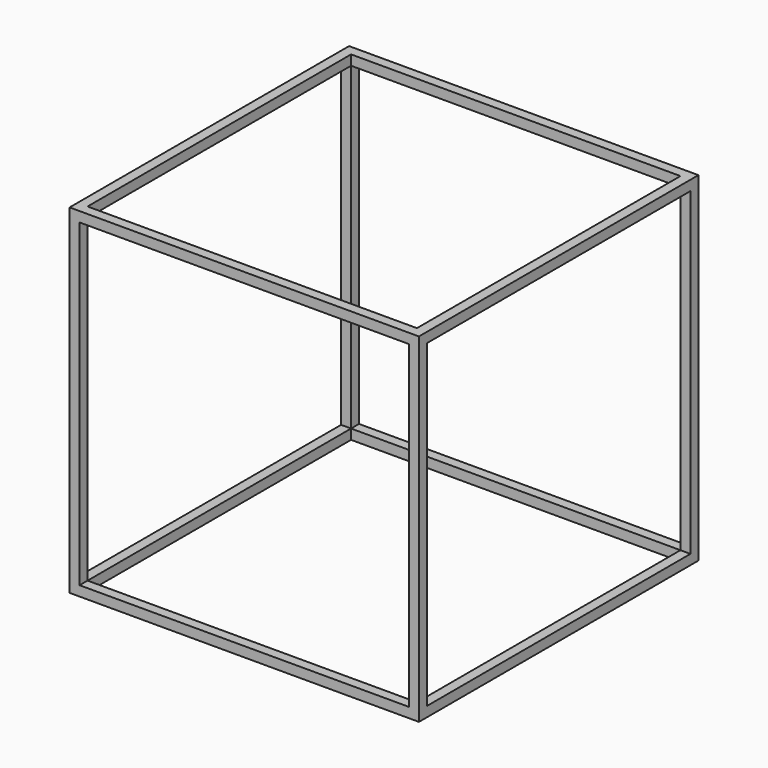
from build123d import *

# Parameters (mm, degrees)
F0_W      = 20
F0_H      = 660
F0_H_2    = 20
F1_DEPTH  = 20
F2_DEPTH  = 680
F3_W      = 20
F3_H      = 20
F4_DEPTH  = 660
F5_W      = 20
F5_H      = 20
F6_DEPTH  = 680
F7_W      = 20
F7_H      = 20
F8_DEPTH  = 660
F9_W      = 20
F9_H      = 20
F10_DEPTH = 660


with BuildPart() as f1:
    # F0 (on Top) → F1 (new body)
    with BuildSketch(Plane.XY):
        Polygon((350.936165, 480.516352), (-329.063835, 480.516352), (-329.063835, 460.516352), (330.936165, 460.516352), (330.936165, -199.483648), (-329.063835, -199.483648), (-329.063835, -219.483648), (350.936165, -219.483648), align=None)
        with Locations((-339.063835, 130.516352)):
            Rectangle(F0_W, F0_H)
        with Locations((-339.063835, 470.516352)):
            Rectangle(F0_W, F0_H_2)
        with Locations((-339.063835, -209.483648)):
            Rectangle(F0_W, F0_H_2)
    extrude(amount=F1_DEPTH)

    # F0 (on Top) → F2 (join)
    with BuildSketch(Plane.XY):
        with Locations((-339.063835, 470.516352)):
            Rectangle(F0_W, F0_H_2)
        with Locations((-339.063835, -209.483648)):
            Rectangle(F0_W, F0_H_2)
    extrude(amount=F2_DEPTH)

    # F3 (on face) → F4 (join)
    with BuildSketch(Plane(origin=(0, -199.483648, 0), x_dir=(-1, 0, 0), z_dir=(0, 1, 0))):
        with Locations((339.063835, 670)):
            Rectangle(F3_W, F3_H)
    extrude(amount=F4_DEPTH)

    # F5 (on face) → F6 (join)
    with BuildSketch(Plane.YZ.offset(-329.063835)):
        with Locations((-209.483648, 670)):
            Rectangle(F5_W, F5_H)
        with Locations((470.516352, 670)):
            Rectangle(F5_W, F5_H)
    extrude(amount=F6_DEPTH)

    # F7 (on face) → F8 (join)
    with BuildSketch(Plane.XY.offset(20)):
        with Locations((340.936165, 470.516352)):
            Rectangle(F7_W, F7_H)
        with Locations((340.936165, -209.483648)):
            Rectangle(F7_W, F7_H)
    extrude(amount=F8_DEPTH)

    # F9 (on face) → F10 (join)
    with BuildSketch(Plane.XZ.offset(-460.516352)):
        with Locations((340.936165, 670)):
            Rectangle(F9_W, F9_H)
    extrude(amount=F10_DEPTH)


solid = f1.part
